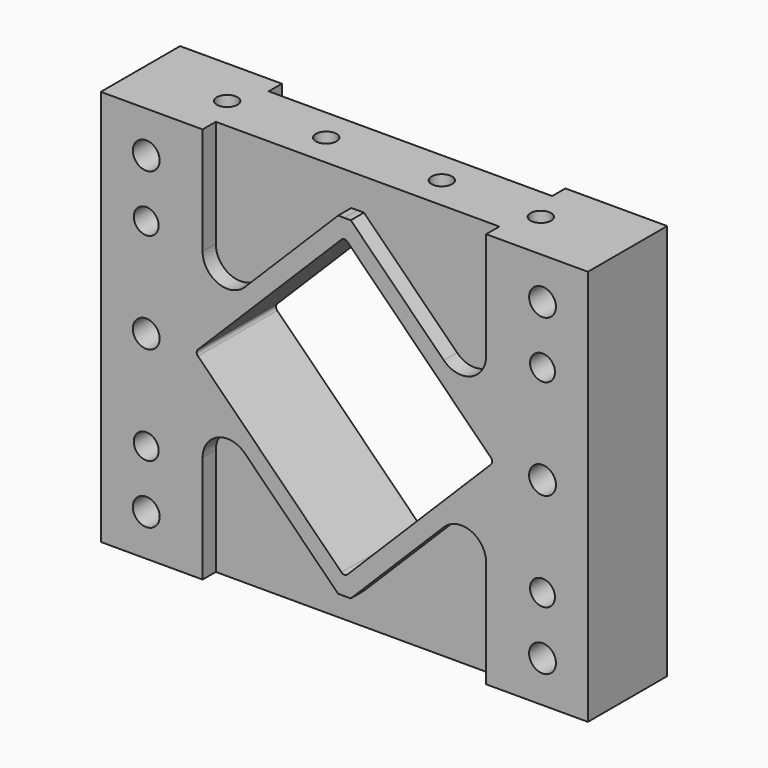
from build123d import *

# Parameters (mm, degrees)
F0_W      = 187.325
F0_H      = 152.4
F1_DEPTH  = 38.1
F3_D      = 9.5758
F4_DEPTH  = 6.35
F6_DEPTH  = 6.35
F8_D      = 7.9375
F8_DEPTH  = 17.4625
F8_TIP    = 2.3846655818
F10_D     = 7.9375
F10_DEPTH = 17.4625
F10_TIP   = 2.3846655818
F11_D     = 10.3124


with BuildPart() as f1:
    # F0 (on Front) → F1 (new body)
    with BuildSketch(Plane.XZ):
        with Locations((17.3622183502, -12.1438738748)):
            Rectangle(F0_W, F0_H)
        with BuildLine():
            ThreePointArc((73.7470006338, -11.0550622269), (74.2119686187, -12.1775942421), (73.7470006338, -13.3001262572))
            Line((73.7470006338, -13.3001262572), (18.5184254892, -68.5287014018))
            ThreePointArc((18.5184254892, -68.5287014018), (17.3958934741, -68.9936693866), (16.273361459, -68.5287014018))
            Line((16.273361459, -68.5287014018), (-38.9552136856, -13.3001262572))
            ThreePointArc((-38.9552136856, -13.3001262572), (-39.4201816705, -12.1775942421), (-38.9552136856, -11.0550622269))
            Line((-38.9552136856, -11.0550622269), (16.273361459, 44.1735129177))
            ThreePointArc((16.273361459, 44.1735129177), (17.3958934741, 44.6384809025), (18.5184254892, 44.1735129177))
            Line((18.5184254892, 44.1735129177), (73.7470006338, -11.0550622269))
        make_face(mode=Mode.SUBTRACT)
    extrude(amount=F1_DEPTH)

    # F3 (through all)
    with Locations(Plane(origin=(0, 0, 0), x_dir=(1, 0, 0), z_dir=(0, 1, 0))):
        with Locations((-58.8377816498, -25.9561261252), (-58.8377816498, 50.2438738748), (93.5622183502, 50.2438738748), (93.5622183502, -25.9561261252)):
            Hole(F3_D / 2)

    # F2 (on face) → F4 (cut)
    with BuildSketch(Plane.XZ.offset(38.1)):
        with BuildLine():
            Line((-20.9021291893, 15.9782783904), (14.9574931524, 51.8379007322))
            Line((14.9574931524, 51.8379007322), (17.3622183502, 51.8379006441))
            Line((17.3622183502, 51.8379006441), (17.3622183502, 64.0561261252))
            Line((17.3622183502, 64.0561261252), (-37.1623212801, 64.0561261252))
            Line((-37.1623212801, 64.0561261252), (-37.1623212801, 22.7134704812))
            ThreePointArc((-37.1623212801, 22.7134704812), (-31.2823809734, 13.913517934), (-20.9021291893, 15.9782783904))
        make_face()
        with BuildLine():
            Line((17.3622183502, 64.0561261252), (17.3622183502, 51.8379006441))
            Line((17.3622183502, 51.8379006441), (19.8342931524, 51.8379005536))
            Line((19.8342931524, 51.8379005536), (55.6265634353, 16.0456302708))
            ThreePointArc((55.6265634353, 16.0456302708), (66.0068152193, 13.9808698144), (71.8867555261, 22.7808223616))
            Line((71.8867555261, 22.7808223616), (71.8867555261, 64.0561261252))
            Line((71.8867555261, 64.0561261252), (17.3622183502, 64.0561261252))
        make_face()
        with BuildLine():
            Line((19.8340516262, -76.1933300919), (17.3558846933, -76.1930850326))
            Line((17.3558846933, -76.1930850326), (17.354683134, -88.3438738748))
            Line((17.354683134, -88.3438738748), (71.8860174681, -88.3438738748))
            Line((71.8860174681, -88.3438738748), (71.8860174681, -47.1367484316))
            ThreePointArc((71.8860174681, -47.1367484316), (66.0060771614, -38.3367958844), (55.6258253773, -40.4015563408))
            Line((55.6258253773, -40.4015563408), (19.8340516262, -76.1933300919))
        make_face()
        with BuildLine():
            Line((17.354683134, -88.3438738748), (17.3558846933, -76.1930850326))
            Line((17.3558846933, -76.1930850326), (14.9572517743, -76.1928478381))
            Line((14.9572517743, -76.1928478381), (-20.9013891274, -40.3342069364))
            ThreePointArc((-20.9013891274, -40.3342069364), (-31.2816409115, -38.26944648), (-37.1615812182, -47.0693990272))
            Line((-37.1615812182, -47.0693990272), (-37.1615812182, -88.3438738748))
            Line((-37.1615812182, -88.3438738748), (17.354683134, -88.3438738748))
        make_face()
    extrude(amount=-F4_DEPTH, mode=Mode.SUBTRACT)

    # F5 (on face) → F6 (cut)
    with BuildSketch(Plane.XZ):
        with BuildLine():
            Line((15.0345185454, 51.9149261252), (19.7572675809, 51.9149261252))
            Line((19.7572675809, 51.9149261252), (55.6231262594, 16.0490674467))
            ThreePointArc((55.6231262594, 16.0490674467), (66.0033780434, 13.9843069903), (71.8833183502, 22.7842595375))
            Line((71.8833183502, 22.7842595375), (71.8833183502, 64.0561261252))
            Line((71.8833183502, 64.0561261252), (-37.1588803828, 64.0561261252))
            Line((-37.1588803828, 64.0561261252), (-37.1588803828, 22.7169113786))
            ThreePointArc((-37.1588803828, 22.7169113786), (-31.2789400761, 13.9169588314), (-20.898688292, 15.9817192878))
            Line((-20.898688292, 15.9817192878), (15.0345185454, 51.9149261252))
        make_face()
        with BuildLine():
            Line((-37.1588816498, -88.3438738748), (71.8833208084, -88.3438738748))
            Line((71.8833208084, -88.3438738748), (71.8833208084, -47.1394455633))
            ThreePointArc((71.8833208084, -47.1394455633), (66.0033805017, -38.3394930162), (55.6231287176, -40.4042534725))
            Line((55.6231287176, -40.4042534725), (19.7572675809, -76.2701146093))
            Line((19.7572675809, -76.2701146093), (15.0345185454, -76.2701146093))
            Line((15.0345185454, -76.2701146093), (-20.898689559, -40.3369065048))
            ThreePointArc((-20.898689559, -40.3369065048), (-31.2789413431, -38.2721460485), (-37.1588816498, -47.0720985956))
            Line((-37.1588816498, -47.0720985956), (-37.1588816498, -88.3438738748))
        make_face()
    extrude(amount=F6_DEPTH, mode=Mode.SUBTRACT)

    # F8
    with Locations(Plane(origin=(0, 0, -88.3438738748), x_dir=(1, 0, 0), z_dir=(0, 0, -1))):
        with Locations((-42.9627819467, 19.0499955808), (-4.8627819467, 19.0499983719), (77.6872180533, 19.0500044192), (39.5872180533, 19.0500016281)):
            Hole(F8_D / 2, depth=F8_DEPTH)
            with Locations((0, 0, -(F8_DEPTH + F8_TIP / 2))):  # 118° drill point
                Cone(0, F8_D / 2, F8_TIP, mode=Mode.SUBTRACT)

    # F10
    with Locations(Plane.XY.offset(64.0561261252)):
        with Locations((-42.9627810163, -19.05), (-4.8627810163, -19.05), (39.5872189837, -19.05), (77.6872189837, -19.05)):
            Hole(F10_D / 2, depth=F10_DEPTH)
            with Locations((0, 0, -(F10_DEPTH + F10_TIP / 2))):  # 118° drill point
                Cone(0, F10_D / 2, F10_TIP, mode=Mode.SUBTRACT)

    # F11 (through all)
    with Locations(Plane(origin=(0, 0, 0), x_dir=(1, 0, 0), z_dir=(0, 1, 0))):
        with Locations((-58.8377816498, 72.4688738748), (-58.8377816498, 12.1438738748), (-58.8377816498, -48.1811261252), (93.5622183502, -48.1811261252), (93.5622183502, 12.1438738748), (93.5622183502, 72.4688738748)):
            Hole(F11_D / 2)


solid = f1.part
